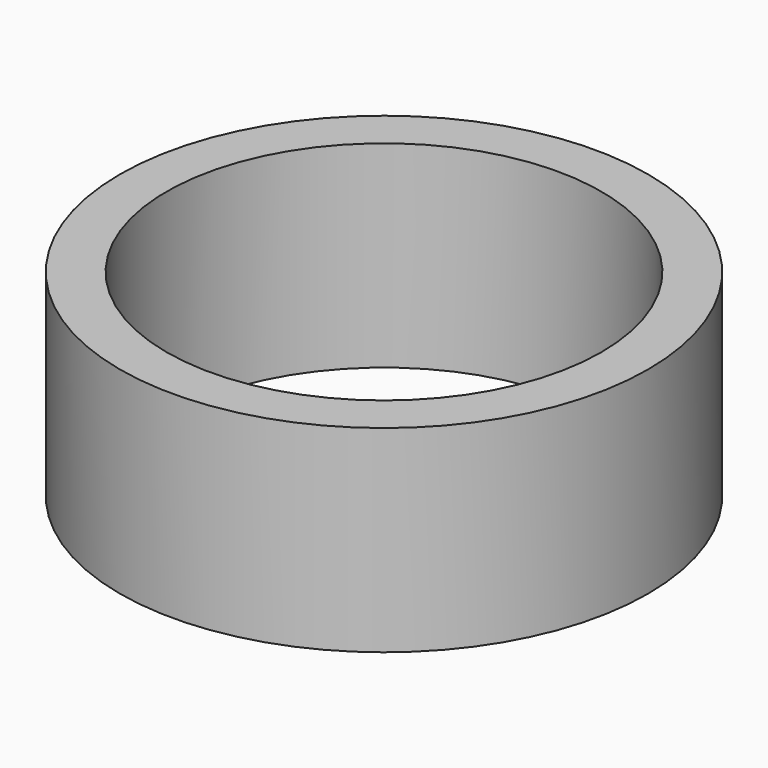
from build123d import *

# Parameters (mm, degrees)
SKETCH_R   = 9.9
SKETCH_R_2 = 8.15
PAD_DEPTH  = 7.4


with BuildPart() as part:
    # Sketch → Pad (new body)
    with BuildSketch(Plane.XY):
        Circle(SKETCH_R)
        Circle(SKETCH_R_2, mode=Mode.SUBTRACT)
    extrude(amount=PAD_DEPTH)


solid = part.part
